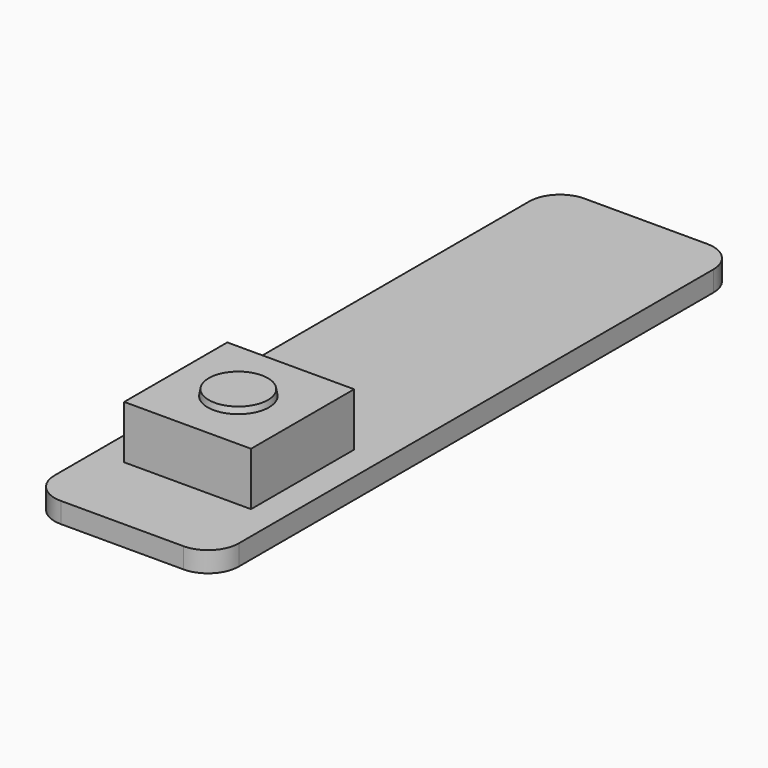
from build123d import *

# Parameters (mm, degrees)
F0_W     = 9
F0_H     = 32
F1_DEPTH = 1
F2_W     = 6.2
F2_H     = 6.3
F3_DEPTH = 2.6
F4_R     = 1.5
F5_DEPTH = 0.3
F5_TAPER = 10
F6_R     = 1.5


with BuildPart() as f1:
    # F0 (on Top) → F1 (new body)
    with BuildSketch(Plane.XY):
        Rectangle(F0_W, F0_H)
    extrude(amount=F1_DEPTH)

    # F2 (on face) → F3 (join)
    with BuildSketch(Plane.XY.offset(1)):
        with Locations((0, -8.85)):
            Rectangle(F2_W, F2_H)
    extrude(amount=F3_DEPTH)

    # F4 (on face) → F5 (join)
    with BuildSketch(Plane.XY.offset(3.6)):
        with Locations((0, -8.9)):
            Circle(F4_R)
    extrude(amount=F5_DEPTH, taper=F5_TAPER)

    # F6
    f6_edges = [f1.edges().sort_by_distance(p)[0] for p in [
        (4.5, -16, 0.5),
        (-4.5, -16, 0.5),
        (4.5, 16, 0.5),
        (-4.5, 16, 0.5),
    ]]
    fillet(f6_edges, radius=F6_R)


solid = f1.part
